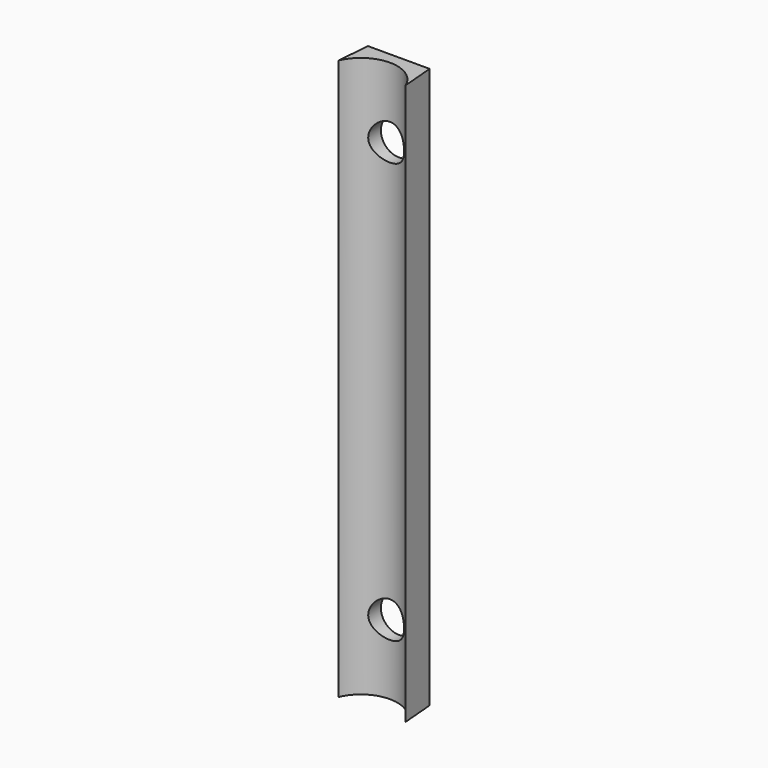
from build123d import *

# Parameters (mm, degrees)
CYLINDER001_R          = 3.2
CYLINDER001_DEPTH      = 10
CYLINDER001_ROLL_ANGLE = 90
CYLINDER_R             = 3.2
CYLINDER_DEPTH         = 10
CYLINDER_ROLL_ANGLE    = 90
PAD_DEPTH              = 50


with BuildPart() as cylinder001:
    # Cylinder001 → Cylinder001 (new body)
    with BuildSketch(Plane.XY):
        Circle(CYLINDER001_R)
    extrude(amount=CYLINDER001_DEPTH)


with BuildPart() as cylinder001_1:
    # Cylinder001 roll: moved
    add(cylinder001.part.rotate(Axis((0, 0, 0), (1, 0, 0)), CYLINDER001_ROLL_ANGLE))


with BuildPart() as cylinder001_2:
    # Cylinder001 placement: moved
    add(cylinder001_1.part.moved(Location((0, 2, -37.5))))


with BuildPart() as cylinder:
    # Cylinder → Cylinder (new body)
    with BuildSketch(Plane.XY):
        Circle(CYLINDER_R)
    extrude(amount=CYLINDER_DEPTH)


with BuildPart() as cylinder_1:
    # Cylinder roll: moved
    add(cylinder.part.rotate(Axis((0, 0, 0), (1, 0, 0)), CYLINDER_ROLL_ANGLE))


with BuildPart() as cylinder_2:
    # Cylinder placement: moved
    add(cylinder_1.part.moved(Location((0, 2, 37.5))))


with BuildPart() as cut001:
    # Sketch001 → Pad (new body, symmetric)
    with BuildSketch(Plane.XY):
        with BuildLine():
            ThreePointArc((6, -5.97913), (0, -1.97913), (-6, -5.97913))
            Line((-5.5, 0), (-6, -5.97913))
            Line((-5.5, 0), (5.5, 0))
            Line((5.5, 0), (6, -5.97913))
        make_face()
    extrude(amount=PAD_DEPTH, both=True)

    # Cut: cut Cylinder
    add(cylinder_2.part, mode=Mode.SUBTRACT)

    # Cut001: cut Cylinder001
    add(cylinder001_2.part, mode=Mode.SUBTRACT)


solid = cut001.part
